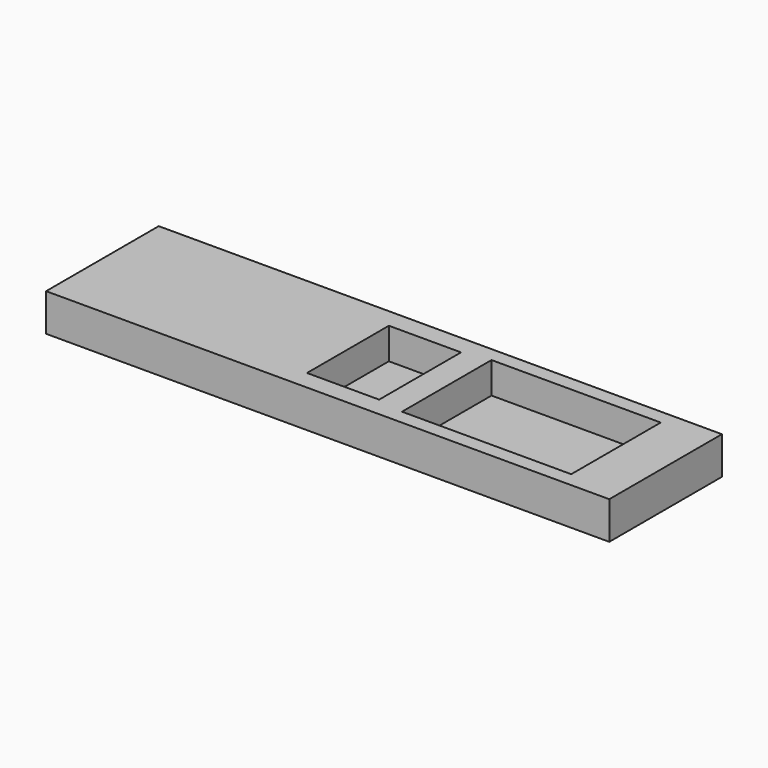
from build123d import *

# Parameters (mm, degrees)
F0_W     = 1800
F0_H     = 450
F1_DEPTH = 60
F2_W     = 230.590574
F2_H     = 327.051252
F2_W_2   = 540.865183
F2_H_2   = 357.563316
F3_DEPTH = 100


with BuildPart() as f1:
    # F0 (on Top) → F1 (new body, symmetric)
    with BuildSketch(Plane.XY):
        Rectangle(F0_W, F0_H)
    extrude(amount=F1_DEPTH, both=True)

    # F2 (on face) → F3 (cut)
    with BuildSketch(Plane.XY.offset(60)):
        Rectangle(F2_W, F2_H)
        with Locations((470.997989, 0)):
            Rectangle(F2_W_2, F2_H_2)
    extrude(amount=-F3_DEPTH, mode=Mode.SUBTRACT)


solid = f1.part
